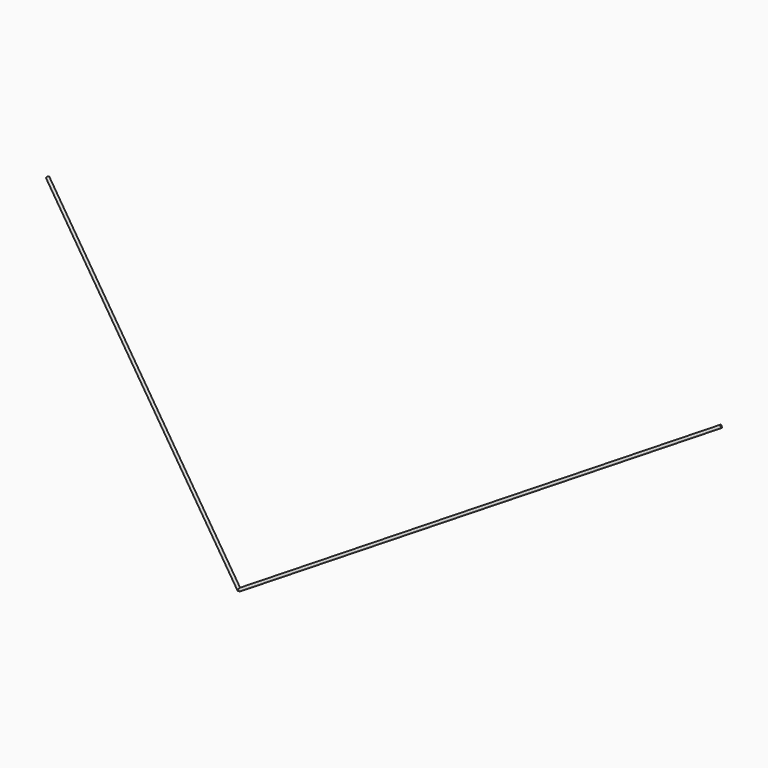
from build123d import *

# Parameters (mm, degrees)
F9_R = 5


with BuildPart() as f10:
    # F10: sweep along a path in F7
    with BuildLine(Plane(origin=(-271.5954708526, -503.4962190422, 0), x_dir=(-0.8801190645, 0.4747530224, 0), z_dir=(0.4747530224, 0.8801190645, 0))) as f10_path:
        Line((1060.5434727641, 5300), (-308.589464536, 4657))
    # F9 (on line) → F10 (sweep)
    with BuildSketch(Plane(origin=(-2559.5612646822, 1380.6762008659, 1365.8073802412), x_dir=(0.3791231123, 0.9029611346, -0.2023038682), z_dir=(0.7966388912, -0.4297222235, -0.4250944457))):
        with Locations((-1529.0538517121, 4108.6456259142)):
            Circle(F9_R)
    sweep(path=f10_path.line)

    # F11: F10 across plane


with BuildPart() as f10_1:
    add(f10.part)
    add(f10.part.mirror(Plane.YZ))


solid = f10_1.part
